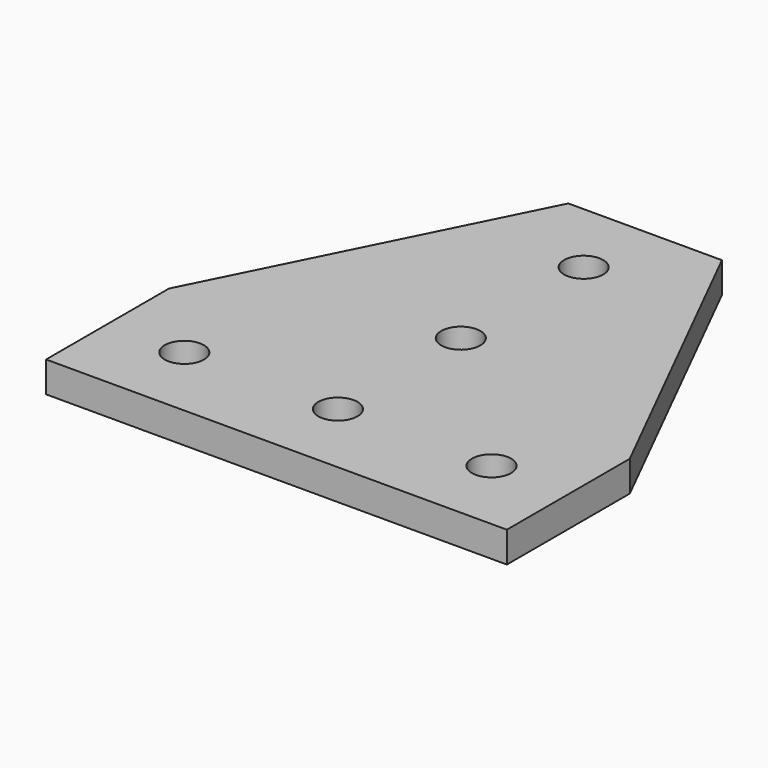
from build123d import *

# Parameters (mm, degrees)
SKETCH_R  = 2.55
PAD_DEPTH = 4


with BuildPart() as part:
    # Sketch → Pad (new body)
    with BuildSketch(Plane.XY):
        Polygon((0, 0), (60, 0), (60, 20), (40, 60), (20, 60), (0, 20), align=None)
        with Locations((30, 10)):
            Circle(SKETCH_R, mode=Mode.SUBTRACT)
        with Locations((10, 10)):
            Circle(SKETCH_R, mode=Mode.SUBTRACT)
        with Locations((50, 10)):
            Circle(SKETCH_R, mode=Mode.SUBTRACT)
        with Locations((30, 30)):
            Circle(SKETCH_R, mode=Mode.SUBTRACT)
        with Locations((30, 50)):
            Circle(SKETCH_R, mode=Mode.SUBTRACT)
    extrude(amount=PAD_DEPTH)


solid = part.part
